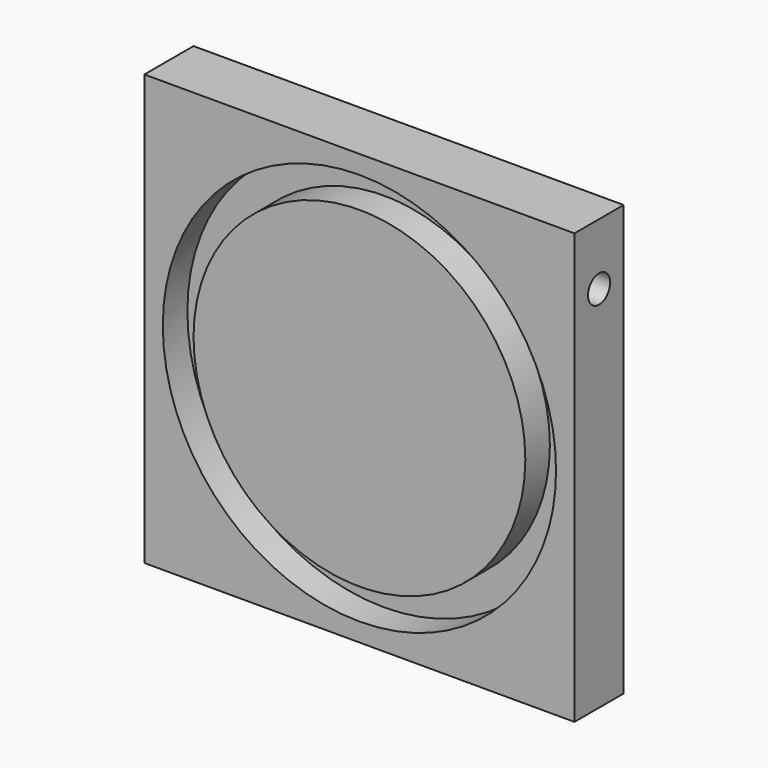
from build123d import *

# Parameters (mm, degrees)
SKETCH_W       = 70
SKETCH_H       = 70
PAD_DEPTH      = 10
SKETCH001_R    = 32
SKETCH001_R_2  = 27
POCKET_DEPTH   = 5
SKETCH003_R    = 2.25
HOLE_DEPTH     = 10
HOLE_TIPS_R    = 2.25
SKETCH004_R    = 2.25
HOLE001_DEPTH  = 10
HOLE001_TIPS_R = 2.25


with BuildPart() as part:
    # Sketch → Pad (new body)
    with BuildSketch(Plane.XZ):
        Rectangle(SKETCH_W, SKETCH_H)
    extrude(amount=PAD_DEPTH)

    # Sketch001 (on Face6 of Pad) → Pocket (cut)
    with BuildSketch(Plane.XZ.offset(10)):
        Circle(SKETCH001_R)
        Circle(SKETCH001_R_2, mode=Mode.SUBTRACT)
    extrude(amount=-POCKET_DEPTH, mode=Mode.SUBTRACT)

    # Sketch003 (on Face3 of Pocket) → Hole (cut)
    with BuildSketch(Plane(origin=(35, 0, 0), x_dir=(0, 0, 1), z_dir=(1, 0, 0))):
        with Locations((25, 5)):
            Circle(SKETCH003_R)
    extrude(amount=-HOLE_DEPTH, mode=Mode.SUBTRACT)

    # Hole tips → Hole tip 1 section 0
    with BuildSketch(Plane(origin=(25, 0, 0), x_dir=(0, 0, 1), z_dir=(1, 0, 0)), mode=Mode.PRIVATE) as hole_tip_1_s0:
        with Locations((25, 5)):
            Circle(HOLE_TIPS_R)
    loft([hole_tip_1_s0.sketch, Vertex(23.648064, -5, 25)], mode=Mode.SUBTRACT)

    # Sketch004 (on Face6 of Hole) → Hole001 (cut)
    with BuildSketch(Plane(origin=(0, 0, -35), x_dir=(1, 0, 0), z_dir=(0, 0, -1))):
        with Locations((-25, 5)):
            Circle(SKETCH004_R)
    extrude(amount=-HOLE001_DEPTH, mode=Mode.SUBTRACT)

    # Hole001 tips → Hole001 tip 1 section 0
    with BuildSketch(Plane(origin=(0, 0, -25), x_dir=(1, 0, 0), z_dir=(0, 0, -1)), mode=Mode.PRIVATE) as hole001_tip_1_s0:
        with Locations((-25, 5)):
            Circle(HOLE001_TIPS_R)
    loft([hole001_tip_1_s0.sketch, Vertex(-25, -5, -23.648064)], mode=Mode.SUBTRACT)


solid = part.part
